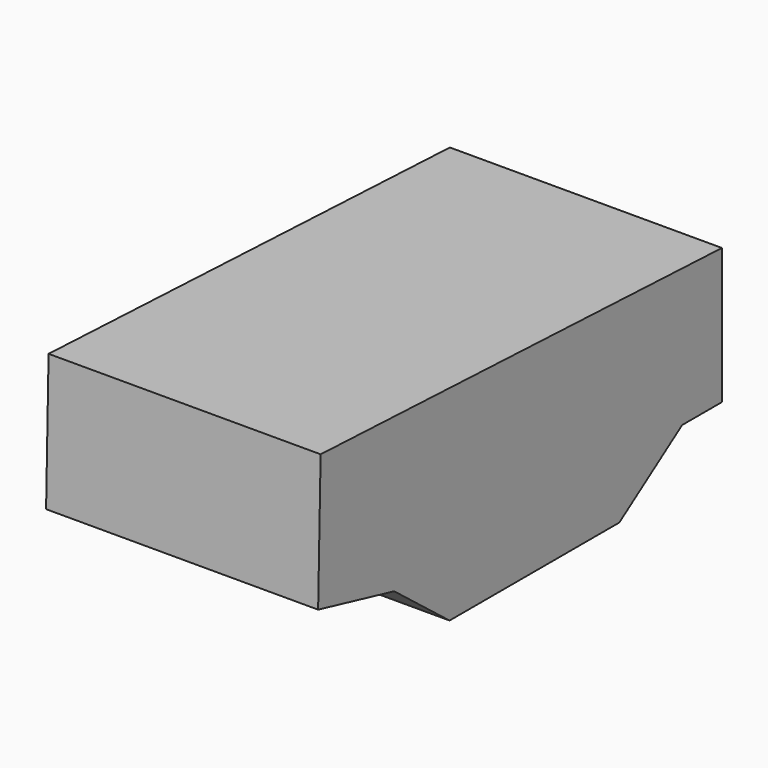
from build123d import *

# Parameters (mm, degrees)
F1_DEPTH = 25.4
F2_DEPTH = 25.4


with BuildPart() as f1:
    # F0 (on Right) → F1 (new body)
    with BuildSketch(Plane.YZ):
        Polygon((-133.440181613, 37.7011820674), (-134.0246200562, 12.3990774155), (-116.2741854787, 8.210147731), (-103.3477857709, -1.8578846939), (-63.7195706367, -1.8578846939), (-49.0556843579, 8.210147731), (-39.7747755051, 8.210147731), (-39.7747755051, 33.5487276316), align=None)
    extrude(amount=F1_DEPTH)

    # F2 (add): a face of the model
    f2_faces = [f1.faces().sort_by_distance(p)[0] for p in [
        (0, -86.6234005429, 18.8773491823),
    ]]
    extrude(f2_faces, amount=F2_DEPTH)


solid = f1.part
